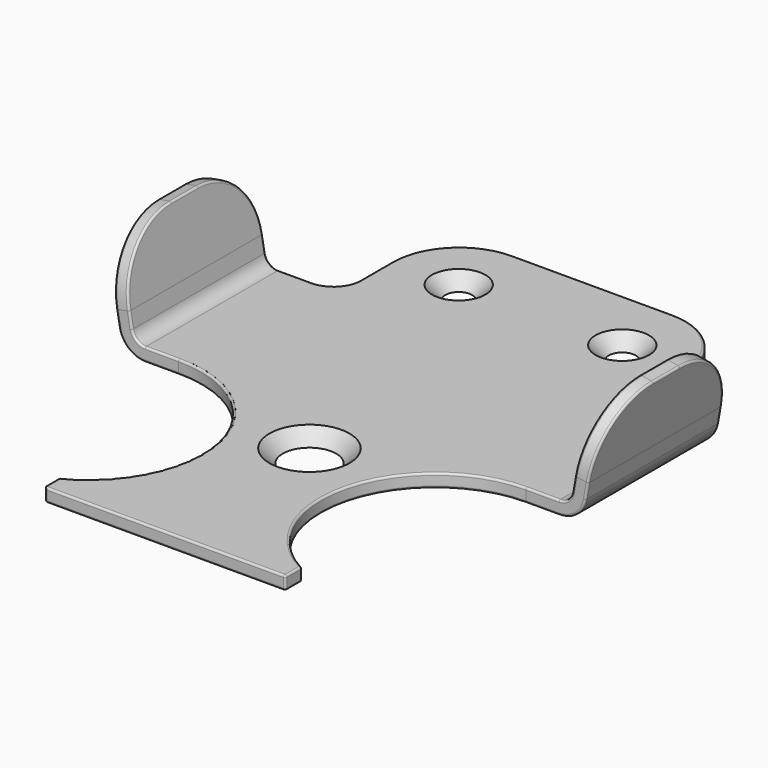
from build123d import *

# Parameters (mm, degrees)
F1_DEPTH       = 2
F3_DEPTH       = 25
F5_DEPTH       = 1.9995075864
F8_D           = 4
F8_CSINK_D     = 8
F8_CSINK_ANGLE = 90
F9_D           = 8
F9_CSINK_D     = 12
F9_CSINK_ANGLE = 90
F10_R          = 0.3


with BuildPart() as f1:
    # F0 (on Top) → F1 (new body)
    with BuildSketch(Plane.XY):
        with BuildLine():
            Line((12, 38), (0, 38))
            Line((0, 38), (-12, 38))
            ThreePointArc((-12, 38), (-19.0710807986, 35.0710548251), (-22, 27.9999632679))
            Line((-22, 27.9999632679), (-22, 21.9999632679))
            ThreePointArc((-22, 21.9999632679), (-23.17150736, 19.1716016599), (-25.9998146928, 17.9999632722))
            Line((-25.9998146928, 17.9999632722), (-28.4998146928, 17.9999632722))
            Line((-28.4998146928, 17.9999632722), (-28.4998146928, -7.0000367278))
            Line((-28.4998146928, -7.0000367278), (-25.9998146928, -7.0000367278))
            ThreePointArc((-25.9998146928, -7.0000367278), (-9.507625, -19.8770165338), (-18, -39))
            Line((-18, -39), (-18, -42))
            Line((-18, -42), (0, -42))
            Line((0, -42), (18, -42))
            Line((18, -42), (18, -39))
            ThreePointArc((18, -39), (9.507625, -19.8770165338), (25.9998146928, -7.0000367278))
            Line((25.9998146928, -7.0000367278), (28.4998146928, -7.0000367278))
            Line((28.4998146928, -7.0000367278), (28.4998146928, 17.9999632722))
            Line((28.4998146928, 17.9999632722), (25.9998146928, 17.9999632722))
            ThreePointArc((25.9998146928, 17.9999632722), (23.17150736, 19.1716016599), (22, 21.9999632679))
            Line((22, 21.9999632679), (22, 27.9999632679))
            ThreePointArc((22, 27.9999632679), (19.0710807986, 35.0710548251), (12, 38))
        make_face()
    extrude(amount=F1_DEPTH)

    # F2 (on face) → F3 (join, through all)
    with BuildSketch(Plane.XZ.offset(7.0000367278)):
        with BuildLine():
            Line((-30.9998146928, 0), (-28.4998146928, 0))
            Line((-28.4998146928, 0), (-28.4998146928, 2))
            Line((-28.4998146928, 2), (-30.9998146928, 2))
            ThreePointArc((-30.9998146928, 2), (-32.2856881236, 2.4677417533), (-32.9699255443, 3.6526771862))
            Line((-32.9699255443, 3.6526771862), (-33.3783770998, 5.9689395476))
            Line((-33.3783770998, 5.9689395476), (-35.3475030198, 5.6217023095))
            Line((-35.3475030198, 5.6217023095), (-34.9390363958, 3.3053544974))
            ThreePointArc((-34.9390363958, 3.3053544974), (-33.570944599, 0.9358049988), (-30.9998146928, 0))
        make_face()
    extrude(amount=-F3_DEPTH)

    # F4 (on face) → F5 (join, through all)
    with BuildSketch(Plane(origin=(-33.3200448493, 0, -5.8756833317), x_dir=(0, -1, 0), z_dir=(-0.9848054258, 0, -0.1736613756))):
        with BuildLine():
            Line((-3.0000000043, 21.6747789364), (-7.9999265402, 21.6747789364))
            ThreePointArc((-7.9999265402, 21.6747789364), (-15.0710180974, 18.7458597351), (-17.9999632722, 11.6747789365))
            Line((-17.9999632722, 11.6747789365), (7.0000367278, 11.6747789365))
            ThreePointArc((7.0000367278, 11.6747789365), (4.0710915529, 18.7458597351), (-3.0000000043, 21.6747789364))
        make_face()
    extrude(amount=-F5_DEPTH)

    # F6: F1 across plane


with BuildPart() as f1_1:
    add(f1.part)
    add(f1.part.mirror(Plane.YZ))

    # F8 (through all)
    with Locations(Plane.XY.offset(2)):
        with Locations((12.25, 28.25), (-12.25, 28.25)):
            CounterSinkHole(F8_D / 2, F8_CSINK_D / 2, counter_sink_angle=F8_CSINK_ANGLE)

    # F9 (through all)
    with Locations(Plane.XY.offset(2)):
        with Locations((0, -15)):
            CounterSinkHole(F9_D / 2, F9_CSINK_D / 2, counter_sink_angle=F9_CSINK_ANGLE)

    # F10
    f10_edges = [f1_1.edges().sort_by_distance(p)[0] for p in [
        (9.507625, -19.877017, 2),
        (18, -40.5, 2),
        (0, -42, 2),
        (18, -42, 1),
        (18, -40.5, 0),
        (9.507625, -19.877017, 0),
        (0, -42, 0),
        (-18, -40.5, 0),
        (-18, -39, 1),
        (-18, -42, 1),
        (18, -39, 1),
    ]]
    fillet(f10_edges, radius=F10_R)


solid = f1_1.part
